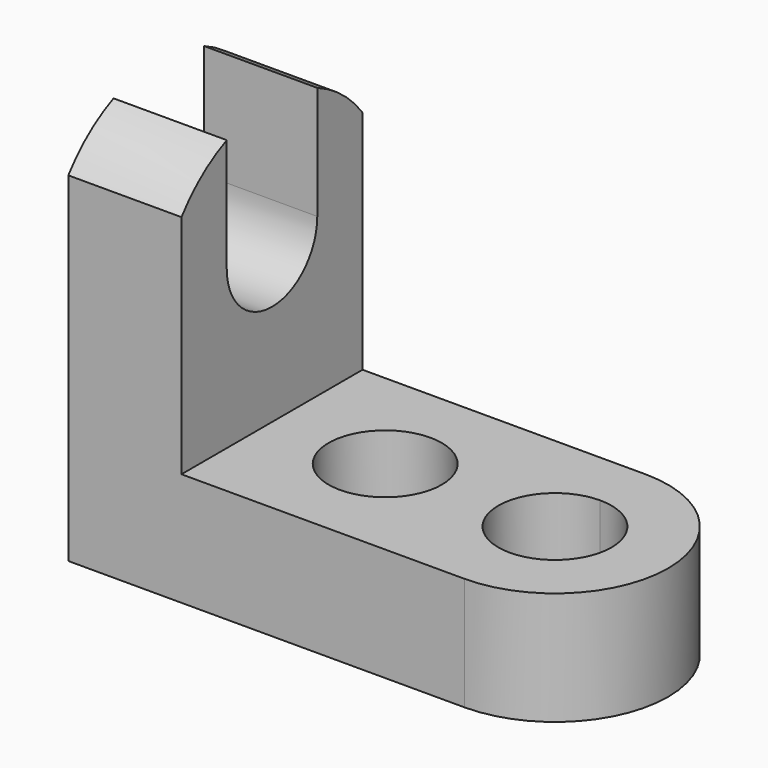
from build123d import *

# Parameters (mm, degrees)
F1_DEPTH = 25.4
F2_W     = 12.7
F2_H     = 7.675322
F3_DEPTH = 12.7
F4_DEPTH = 12.7
F5_R     = 6.35
F6_DEPTH = 25.4
F7_DEPTH = 12.7


with BuildPart() as f1:
    # F0 (on Front) → F1 (new body)
    with BuildSketch(Plane.XZ):
        Polygon((0, 38.1), (0, 0), (44.45, 0), (44.45, 12.7), (12.7, 12.7), (12.7, 38.1), align=None)
    extrude(amount=F1_DEPTH)

    # F2 (on face) → F3 (cut)
    with BuildSketch(Plane(origin=(0, 0, 0), x_dir=(0, -1, 0), z_dir=(-1, 0, 0))):
        with BuildLine():
            Line((6.35, 38.1), (6.35, 43.124678))
            ThreePointArc((6.35, 43.124678), (2.84924, 41.024022), (0, 38.1))
            Line((0, 38.1), (6.35, 38.1))
        make_face()
        with Locations((12.7, 34.262339)):
            Rectangle(F2_W, F2_H)
        with BuildLine():
            ThreePointArc((6.35, 30.424678), (12.7, 24.074678), (19.05, 30.424678))
            Line((19.05, 30.424678), (6.35, 30.424678))
        make_face()
    extrude(amount=-F3_DEPTH, mode=Mode.SUBTRACT)

    # F2 (on face) → F4 (join)
    with BuildSketch(Plane(origin=(0, 0, 0), x_dir=(0, -1, 0), z_dir=(-1, 0, 0))):
        with BuildLine():
            Line((6.35, 38.1), (6.35, 43.124678))
            ThreePointArc((6.35, 43.124678), (2.84924, 41.024022), (0, 38.1))
            Line((0, 38.1), (6.35, 38.1))
        make_face()
        with BuildLine():
            Line((19.05, 38.1), (25.4, 38.1))
            ThreePointArc((25.4, 38.1), (22.55076, 41.024022), (19.05, 43.124678))
            Line((19.05, 43.124678), (19.05, 38.1))
        make_face()
    extrude(amount=-F4_DEPTH)

    # F5 (on face) → F6 (cut)
    with BuildSketch(Plane.XY.offset(12.7)):
        with BuildLine():
            Line((44.45, -6.35), (44.45, -19.05))
            ThreePointArc((44.45, -19.05), (48.940128, -17.190128), (50.8, -12.7))
            ThreePointArc((50.8, -12.7), (48.940128, -8.209872), (44.45, -6.35))
        make_face()
        with BuildLine():
            ThreePointArc((44.45, -6.35), (38.1, -12.7), (44.45, -19.05))
            Line((44.45, -19.05), (44.45, -6.35))
        make_face()
        with Locations((25.4, -12.7)):
            Circle(F5_R)
    extrude(amount=-F6_DEPTH, mode=Mode.SUBTRACT)

    # F5 (on face) → F7 (join)
    with BuildSketch(Plane.XY.offset(12.7)):
        with BuildLine():
            Line((44.45, -19.05), (44.45, -25.4))
            ThreePointArc((44.45, -25.4), (57.15, -12.7), (44.45, 0))
            Line((44.45, 0), (44.45, -6.35))
            ThreePointArc((44.45, -6.35), (48.940128, -8.209872), (50.8, -12.7))
            ThreePointArc((50.8, -12.7), (48.940128, -17.190128), (44.45, -19.05))
        make_face()
    extrude(amount=-F7_DEPTH)


solid = f1.part
